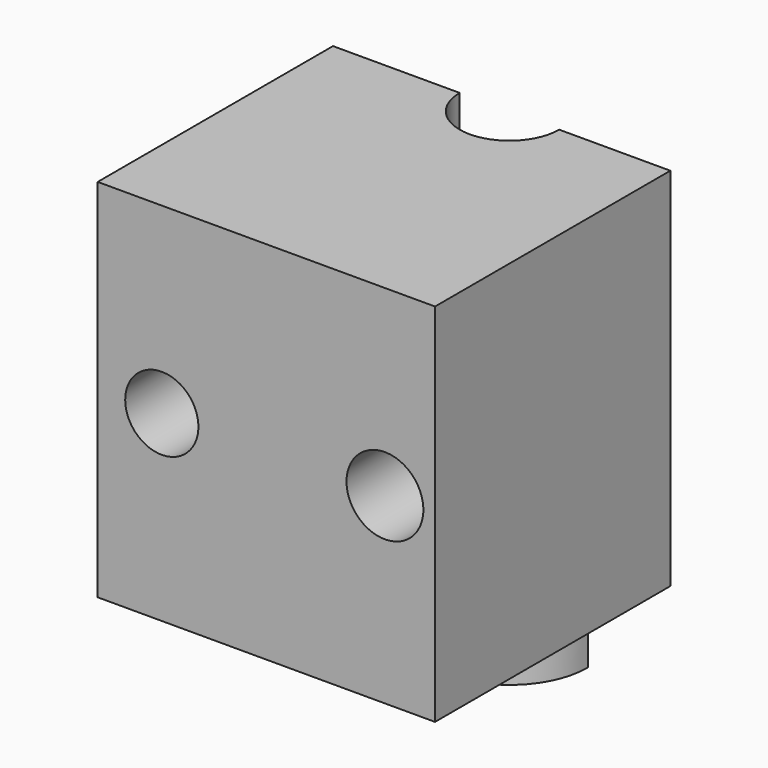
from build123d import *

# Parameters (mm, degrees)
F0_W     = 102.6246032535
F0_H     = 89.4768349826
F1_DEPTH = 55.626
F3_DEPTH = 141.224
F4_DEPTH = 156.718
F5_R     = 11.6889879412
F6_DEPTH = 134.874
F7_R     = 11.1336119635
F8_DEPTH = 268.478


with BuildPart() as f1:
    # F0 (on Top) → F1 (new body, symmetric)
    with BuildSketch(Plane.XY):
        with Locations((-9.000580439, 1.2215245515)):
            Rectangle(F0_W, F0_H)
    extrude(amount=F1_DEPTH, both=True)

    # F2 (on face) → F3 (join)
    with BuildSketch(Plane.XY.offset(55.626)):
        with BuildLine():
            ThreePointArc((-30.4661283079, 45.9599420428), (-6.615057122, 22.1088708569), (17.2360140639, 45.9599420428))
            Line((17.2360140639, 45.9599420428), (8.524204708, 45.9599420428))
            ThreePointArc((8.524204708, 45.9599420428), (-6.615057122, 30.8206802129), (-21.7543189519, 45.9599420428))
            Line((-21.7543189519, 45.9599420428), (-30.4661283079, 45.9599420428))
        make_face()
    extrude(amount=-F3_DEPTH)

    # F4 (cut): a face of the model
    f4_faces = [f1.faces().sort_by_distance(p)[0] for p in [
        (-6.615057122, 39.5346397628, -55.626),
    ]]
    extrude(f4_faces, amount=-F4_DEPTH, mode=Mode.SUBTRACT)

    # F5 (on face) → F6 (cut, symmetric)
    with BuildSketch(Plane(origin=(0, 45.9599420428, 0), x_dir=(-1, 0, 0), z_dir=(0, 1, 0))):
        with Locations((-27.0718317479, 0)):
            Circle(F5_R)
    extrude(amount=F6_DEPTH, both=True, mode=Mode.SUBTRACT)

    # F7 (on face) → F8 (cut)
    with BuildSketch(Plane(origin=(0, 45.9599420428, 0), x_dir=(-1, 0, 0), z_dir=(0, 1, 0))):
        with Locations((40.8077836037, 0)):
            Circle(F7_R)
    extrude(amount=-F8_DEPTH, mode=Mode.SUBTRACT)


solid = f1.part
